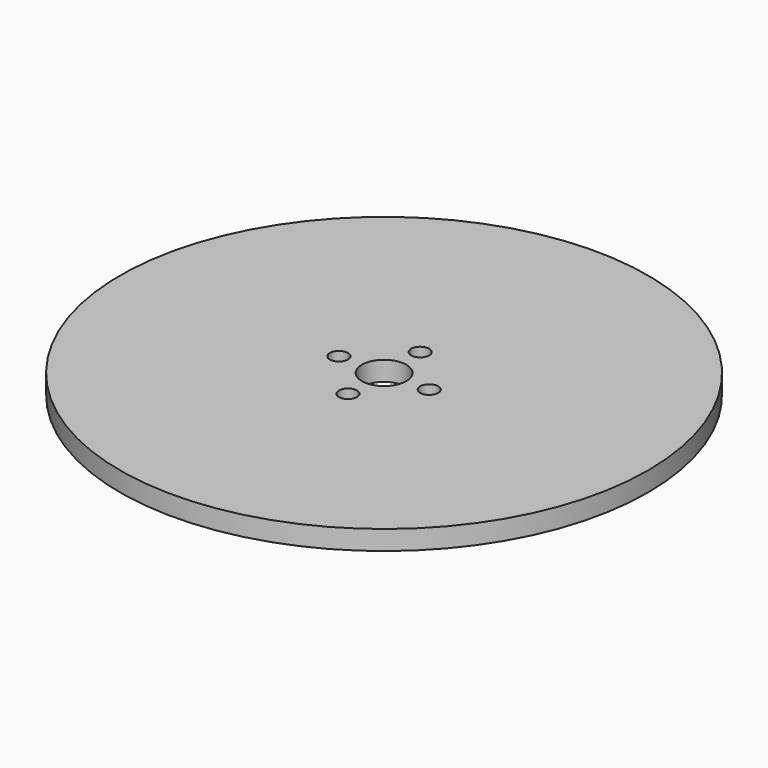
from build123d import *

# Parameters (mm, degrees)
F0_R     = 47.5
F1_DEPTH = 3.5
F2_R     = 4
F3_DEPTH = 3.5
F4_R     = 1.625
F5_DEPTH = 3.5


with BuildPart() as f1:
    # F0 (on Top) → F1 (new body)
    with BuildSketch(Plane.XY):
        Circle(F0_R)
    extrude(amount=F1_DEPTH)

    # F2 (on face) → F3 (cut)
    with BuildSketch(Plane.XY.offset(3.5)):
        Circle(F2_R)
    extrude(amount=-F3_DEPTH, mode=Mode.SUBTRACT)

    # F4 (on face) → F5 (cut)
    with BuildSketch(Plane.XY.offset(3.5)):
        with Locations((0, 8.125)):
            Circle(F4_R)
        with Locations((-8.125, 0)):
            Circle(F4_R)
        with Locations((0, -8.125)):
            Circle(F4_R)
        with Locations((8.125, 0)):
            Circle(F4_R)
    extrude(amount=-F5_DEPTH, mode=Mode.SUBTRACT)


solid = f1.part
